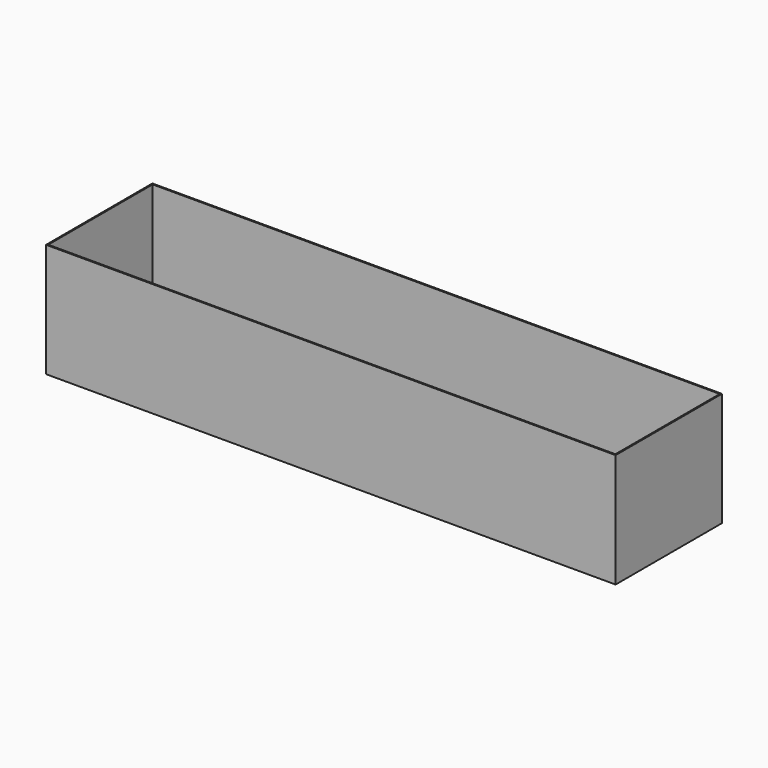
from build123d import *

# Parameters (mm, degrees)
F0_W     = 1524
F0_H     = 304.8
F1_DEPTH = 355.6
F2_T     = -3.175
F3_R     = 6.35
F4_DEPTH = 25.4


with BuildPart() as f1:
    # F0 (on Front) → F1 (new body)
    with BuildSketch(Plane.XZ):
        Rectangle(F0_W, F0_H)
    extrude(amount=F1_DEPTH)

    # F2
    f2_openings = [f1.faces().sort_by_distance(p)[0] for p in [
        (0, -177.8, 152.4),
    ]]
    offset(amount=F2_T, openings=f2_openings)

    # F3 (on face) → F4 (cut)
    with BuildSketch(Plane(origin=(0, 0, -152.4), x_dir=(1, 0, 0), z_dir=(0, 0, -1))):
        with Locations((-613.817692, 189.950407)):
            Circle(F3_R)
        with Locations((-461.417692, 189.950407)):
            Circle(F3_R)
        with Locations((-309.017692, 189.950407)):
            Circle(F3_R)
        with Locations((-156.617692, 189.950407)):
            Circle(F3_R)
        with Locations((-4.217692, 189.950407)):
            Circle(F3_R)
        with Locations((148.182308, 189.950407)):
            Circle(F3_R)
        with Locations((300.582308, 189.950407)):
            Circle(F3_R)
        with Locations((452.982308, 189.950407)):
            Circle(F3_R)
        with Locations((605.382308, 189.950407)):
            Circle(F3_R)
    extrude(amount=-F4_DEPTH, mode=Mode.SUBTRACT)


solid = f1.part
